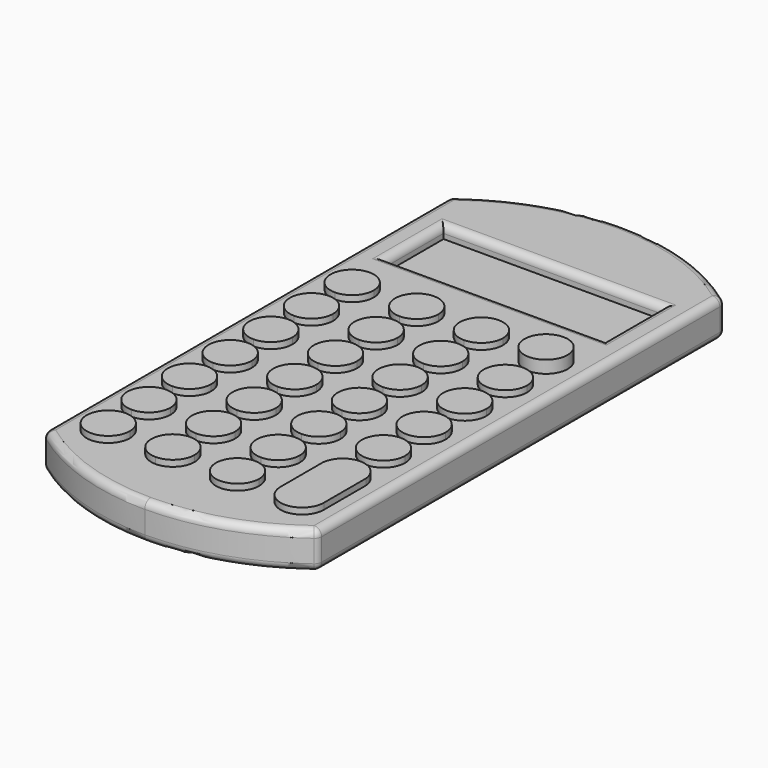
from build123d import *

# Parameters (mm, degrees)
F0_W      = 87.984342128
F0_H      = 28.8984254003
F1_DEPTH  = 15
F2_DEPTH  = 10
F3_R      = 3
F5_DEPTH  = 2.5
F6_DEPTH  = 2.5
F7_DEPTH  = 2.5
F8_DEPTH  = 2.5
F9_DEPTH  = 2.5
F10_DEPTH = 2.5
F11_DEPTH = 2.5


with BuildPart() as f1:
    # F0 (on Top) → F1 (new body)
    with BuildSketch(Plane.XY):
        with BuildLine():
            ThreePointArc((17.8983286023, 96.8288706003), (-11.1439248367, 92.0324017518), (-37.1016713977, 78.15241646))
            Line((-37.1016713977, 78.15241646), (-37.1016713977, -125.0598877668))
            Line((-37.1016713977, -125.0598877668), (17.8983286023, -125.0598877668))
            Line((17.8983286023, -125.0598877668), (72.8983286023, -125.0598877668))
            Line((72.8983286023, -125.0598877668), (72.8983286023, 78.15241646))
            ThreePointArc((72.8983286023, 78.15241646), (46.9405820413, 92.0324017518), (17.8983286023, 96.8288706003))
        make_face()
        with Locations((17.8983286023, 47.0227487385)):
            Rectangle(F0_W, F0_H, mode=Mode.SUBTRACT)
        with BuildLine():
            Line((17.8983286023, -125.0598877668), (-37.1016713977, -125.0598877668))
            ThreePointArc((-37.1016713977, -125.0598877668), (-11.1439248367, -138.9398730586), (17.8983286023, -143.7363419071))
            Line((17.8983286023, -143.7363419071), (17.8983286023, -125.0598877668))
        make_face()
        with BuildLine():
            Line((72.8983286023, -125.0598877668), (17.8983286023, -125.0598877668))
            Line((17.8983286023, -125.0598877668), (17.8983286023, -143.7363419071))
            ThreePointArc((17.8983286023, -143.7363419071), (46.9405820413, -138.9398730586), (72.8983286023, -125.0598877668))
        make_face()
    extrude(amount=F1_DEPTH)

    # F0 (on Top) → F2 (join)
    with BuildSketch(Plane.XY):
        with Locations((17.8983286023, 47.0227487385)):
            Rectangle(F0_W, F0_H)
    extrude(amount=F2_DEPTH)

    # F3
    f3_edges = [f1.edges().sort_by_distance(p)[0] for p in [
        (-37.101671, -125.059888, 7.5),
        (72.898329, -125.059888, 7.5),
        (17.898329, -143.736342, 0),
        (17.898329, -143.736342, 15),
        (-37.101671, 78.152416, 7.5),
        (-37.101671, -23.453736, 0),
        (-37.101671, -23.453736, 15),
        (17.898329, 96.828871, 15),
        (72.898329, -23.453736, 15),
        (-26.093842, 47.022749, 15),
        (17.898329, 61.471961, 15),
        (61.8905, 47.022749, 15),
        (17.898329, 32.573536, 15),
        (72.898329, 78.152416, 7.5),
        (72.898329, -23.453736, 0),
        (17.898329, 96.828871, 0),
    ]]
    fillet(f3_edges, radius=F3_R)

    # F4 (on face) → F5 (join)
    with BuildSketch(Plane.XY.offset(15)):
        with BuildLine():
            Line((48.2054539025, -93.6558089797), (48.2054539025, -103.1288355589))
            Line((48.2054539025, -103.1288355589), (65.5974000692, -103.1288355589))
            Line((65.5974000692, -103.1288355589), (65.5974000692, -93.6558089797))
            Line((65.5974000692, -93.6558089797), (65.5974000692, -92.1654421381))
            ThreePointArc((65.5974000692, -92.1654421381), (62.8036046423, -86.4810419713), (56.9014269859, -84.1827824005))
            ThreePointArc((56.9014269859, -84.1827824005), (50.9992493294, -86.4810419713), (48.2054539025, -92.1654421381))
            Line((48.2054539025, -92.1654421381), (48.2054539025, -92.9106255589))
            Line((48.2054539025, -92.9106255589), (48.2054539025, -93.6558089797))
        make_face()
        Polygon((65.5974000692, -103.1288355589), (48.2054539025, -103.1288355589), (48.2054539025, -113.3470451967), (56.9014269859, -113.3470451967), (65.5974000692, -113.3470451967), align=None)
        with BuildLine():
            Line((56.9014269859, -113.3470451967), (48.2054539025, -113.3470451967))
            ThreePointArc((48.2054539025, -113.3470451967), (56.9014269859, -122.0430182801), (65.5974000692, -113.3470451967))
            Line((65.5974000692, -113.3470451967), (56.9014269859, -113.3470451967))
        make_face()
    extrude(amount=F5_DEPTH)

    # F4 (on face) → F6 (join)
    with BuildSketch(Plane.XY.offset(15)):
        with BuildLine():
            Line((48.2054539025, -72.4742055589), (65.5974000692, -72.4742055589))
            ThreePointArc((65.5974000692, -72.4742055589), (57.0625024732, -63.7766834217), (48.2054539025, -72.1459162967))
            Line((48.2054539025, -72.1459162967), (48.2054539025, -72.4742055589))
        make_face()
        with BuildLine():
            Line((48.2054539025, -72.4742055589), (48.2054539025, -72.8024948211))
            ThreePointArc((48.2054539025, -72.8024948211), (57.0625024732, -81.1717276961), (65.5974000692, -72.4742055589))
            Line((65.5974000692, -72.4742055589), (48.2054539025, -72.4742055589))
        make_face()
    extrude(amount=F6_DEPTH)

    # F4 (on face) → F7 (join)
    with BuildSketch(Plane.XY.offset(15)):
        with BuildLine():
            Line((48.2054539025, 9.2714802398), (65.5974000692, 9.2714802398))
            ThreePointArc((65.5974000692, 9.2714802398), (57.0625024732, 17.9690023769), (48.2054539025, 9.5997695019))
            Line((48.2054539025, 9.5997695019), (48.2054539025, 9.2714802398))
        make_face()
        with BuildLine():
            Line((48.2054539025, 9.2714802398), (48.2054539025, 8.9431909776))
            ThreePointArc((48.2054539025, 8.9431909776), (57.0625024732, 0.5739581026), (65.5974000692, 9.2714802398))
            Line((65.5974000692, 9.2714802398), (48.2054539025, 9.2714802398))
        make_face()
        with BuildLine():
            Line((48.2054539025, -11.1649455589), (65.5974000692, -11.1649455589))
            ThreePointArc((65.5974000692, -11.1649455589), (57.0625024732, -2.4674234217), (48.2054539025, -10.8366562967))
            Line((48.2054539025, -10.8366562967), (48.2054539025, -11.1649455589))
        make_face()
        with BuildLine():
            Line((48.2054539025, -11.1649455589), (48.2054539025, -11.4932348211))
            ThreePointArc((48.2054539025, -11.4932348211), (57.0625024732, -19.8624676961), (65.5974000692, -11.1649455589))
            Line((65.5974000692, -11.1649455589), (48.2054539025, -11.1649455589))
        make_face()
        with BuildLine():
            Line((48.2054539025, -31.6013655589), (65.5974000692, -31.6013655589))
            ThreePointArc((65.5974000692, -31.6013655589), (57.0625024732, -22.9038434217), (48.2054539025, -31.2730762967))
            Line((48.2054539025, -31.2730762967), (48.2054539025, -31.6013655589))
        make_face()
        with BuildLine():
            Line((48.2054539025, -31.6013655589), (48.2054539025, -31.9296548211))
            ThreePointArc((48.2054539025, -31.9296548211), (57.0625024732, -40.2988876961), (65.5974000692, -31.6013655589))
            Line((65.5974000692, -31.6013655589), (48.2054539025, -31.6013655589))
        make_face()
        with BuildLine():
            Line((48.2054539025, -52.0377855589), (65.5974000692, -52.0377855589))
            ThreePointArc((65.5974000692, -52.0377855589), (57.0625024732, -43.3402634217), (48.2054539025, -51.7094962967))
            Line((48.2054539025, -51.7094962967), (48.2054539025, -52.0377855589))
        make_face()
        with BuildLine():
            Line((48.2054539025, -52.0377855589), (48.2054539025, -52.3660748211))
            ThreePointArc((48.2054539025, -52.3660748211), (57.0625024732, -60.7353076961), (65.5974000692, -52.0377855589))
            Line((65.5974000692, -52.0377855589), (48.2054539025, -52.0377855589))
        make_face()
    extrude(amount=F7_DEPTH)

    # F4 (on face) → F8 (join)
    with BuildSketch(Plane.XY.offset(15)):
        with BuildLine():
            Line((30.8983286023, -113.3470451967), (30.8983286023, -104.6479751967))
            ThreePointArc((30.8983286023, -104.6479751967), (24.7471572153, -107.1958738097), (22.1992586023, -113.3470451967))
            Line((22.1992586023, -113.3470451967), (30.8983286023, -113.3470451967))
        make_face()
        with BuildLine():
            ThreePointArc((22.1992586023, -113.3470451967), (30.8983286023, -122.0461151967), (39.5973986023, -113.3470451967))
            Line((39.5973986023, -113.3470451967), (30.8983286023, -113.3470451967))
            Line((30.8983286023, -113.3470451967), (22.1992586023, -113.3470451967))
        make_face()
    extrude(amount=F8_DEPTH)

    # F4 (on face) → F9 (join)
    with BuildSketch(Plane.XY.offset(15)):
        with BuildLine():
            Line((30.8983286023, -113.3470451967), (39.5973986023, -113.3470451967))
            ThreePointArc((39.5973986023, -113.3470451967), (37.0494999893, -107.1958738097), (30.8983286023, -104.6479751967))
            Line((30.8983286023, -104.6479751967), (30.8983286023, -113.3470451967))
        make_face()
    extrude(amount=F9_DEPTH)

    # F4 (on face) → F10 (join)
    with BuildSketch(Plane.XY.offset(15)):
        with BuildLine():
            ThreePointArc((30.8983286023, -101.6096955589), (37.0494999893, -99.0617969459), (39.5973986023, -92.9106255589))
            Line((39.5973986023, -92.9106255589), (30.8983286023, -92.9106255589))
            Line((30.8983286023, -92.9106255589), (30.8983286023, -101.6096955589))
        make_face()
        with BuildLine():
            ThreePointArc((22.1992586023, -92.9106255589), (24.7471572153, -99.0617969459), (30.8983286023, -101.6096955589))
            Line((30.8983286023, -101.6096955589), (30.8983286023, -92.9106255589))
            Line((30.8983286023, -92.9106255589), (22.1992586023, -92.9106255589))
        make_face()
        with BuildLine():
            Line((22.1992586023, -92.9106255589), (30.8983286023, -92.9106255589))
            Line((30.8983286023, -92.9106255589), (30.8983286023, -84.2115555589))
            ThreePointArc((30.8983286023, -84.2115555589), (24.7471572153, -86.7594541719), (22.1992586023, -92.9106255589))
        make_face()
        with BuildLine():
            Line((30.8983286023, -92.9106255589), (39.5973986023, -92.9106255589))
            ThreePointArc((39.5973986023, -92.9106255589), (37.0494999893, -86.7594541719), (30.8983286023, -84.2115555589))
            Line((30.8983286023, -84.2115555589), (30.8983286023, -92.9106255589))
        make_face()
        with BuildLine():
            ThreePointArc((30.8983286023, -81.1732755589), (37.0494999893, -78.6253769459), (39.5973986023, -72.4742055589))
            Line((39.5973986023, -72.4742055589), (30.8983286023, -72.4742055589))
            Line((30.8983286023, -72.4742055589), (30.8983286023, -81.1732755589))
        make_face()
        with BuildLine():
            ThreePointArc((22.1992586023, -72.4742055589), (24.7471572153, -78.6253769459), (30.8983286023, -81.1732755589))
            Line((30.8983286023, -81.1732755589), (30.8983286023, -72.4742055589))
            Line((30.8983286023, -72.4742055589), (22.1992586023, -72.4742055589))
        make_face()
        with BuildLine():
            Line((22.1992586023, -72.4742055589), (30.8983286023, -72.4742055589))
            Line((30.8983286023, -72.4742055589), (30.8983286023, -63.7751355589))
            ThreePointArc((30.8983286023, -63.7751355589), (24.7471572153, -66.3230341719), (22.1992586023, -72.4742055589))
        make_face()
        with BuildLine():
            Line((30.8983286023, -72.4742055589), (39.5973986023, -72.4742055589))
            ThreePointArc((39.5973986023, -72.4742055589), (37.0494999893, -66.3230341719), (30.8983286023, -63.7751355589))
            Line((30.8983286023, -63.7751355589), (30.8983286023, -72.4742055589))
        make_face()
        with BuildLine():
            Line((22.1992586023, -52.0377855589), (30.8983286023, -52.0377855589))
            Line((30.8983286023, -52.0377855589), (30.8983286023, -43.3387155589))
            ThreePointArc((30.8983286023, -43.3387155589), (24.7471572153, -45.8866141719), (22.1992586023, -52.0377855589))
        make_face()
        with BuildLine():
            Line((30.8983286023, -52.0377855589), (39.5973986023, -52.0377855589))
            ThreePointArc((39.5973986023, -52.0377855589), (37.0494999893, -45.8866141719), (30.8983286023, -43.3387155589))
            Line((30.8983286023, -43.3387155589), (30.8983286023, -52.0377855589))
        make_face()
        with BuildLine():
            ThreePointArc((30.8983286023, -60.7368555589), (37.0494999893, -58.1889569459), (39.5973986023, -52.0377855589))
            Line((39.5973986023, -52.0377855589), (30.8983286023, -52.0377855589))
            Line((30.8983286023, -52.0377855589), (30.8983286023, -60.7368555589))
        make_face()
        with BuildLine():
            ThreePointArc((22.1992586023, -52.0377855589), (24.7471572153, -58.1889569459), (30.8983286023, -60.7368555589))
            Line((30.8983286023, -60.7368555589), (30.8983286023, -52.0377855589))
            Line((30.8983286023, -52.0377855589), (22.1992586023, -52.0377855589))
        make_face()
        with BuildLine():
            ThreePointArc((30.8983286023, -40.3004355589), (37.0494999893, -37.7525369459), (39.5973986023, -31.6013655589))
            Line((39.5973986023, -31.6013655589), (30.8983286023, -31.6013655589))
            Line((30.8983286023, -31.6013655589), (30.8983286023, -40.3004355589))
        make_face()
        with BuildLine():
            ThreePointArc((22.1992586023, -31.6013655562), (24.7471572143, -37.752536945), (30.8983286023, -40.3004355589))
            Line((30.8983286023, -40.3004355589), (30.8983286023, -31.6013655589))
            Line((30.8983286023, -31.6013655589), (22.1992586023, -31.6013655589))
        make_face()
        with BuildLine():
            Line((22.1992586023, -31.6013655589), (30.8983286023, -31.6013655589))
            Line((30.8983286023, -31.6013655589), (30.8983286023, -22.9022955589))
            ThreePointArc((30.8983286023, -22.9022955589), (24.7471572163, -25.4501941709), (22.1992586023, -31.6013655562))
        make_face()
        with BuildLine():
            Line((30.8983286023, -31.6013655589), (39.5973986023, -31.6013655589))
            ThreePointArc((39.5973986023, -31.6013655589), (37.0494999893, -25.4501941719), (30.8983286023, -22.9022955589))
            Line((30.8983286023, -22.9022955589), (30.8983286023, -31.6013655589))
        make_face()
        with BuildLine():
            ThreePointArc((30.8983286023, -19.8640155589), (37.0494999893, -17.3161169459), (39.5973986023, -11.1649455589))
            Line((39.5973986023, -11.1649455589), (30.8983286023, -11.1649455589))
            Line((30.8983286023, -11.1649455589), (30.8983286023, -19.8640155589))
        make_face()
        with BuildLine():
            ThreePointArc((22.1992586023, -11.164945553), (24.7471572132, -17.3161169438), (30.8983286023, -19.8640155589))
            Line((30.8983286023, -19.8640155589), (30.8983286023, -11.1649455589))
            Line((30.8983286023, -11.1649455589), (22.1992586023, -11.1649455589))
        make_face()
        with BuildLine():
            Line((22.1992586023, -11.1649455589), (30.8983286023, -11.1649455589))
            Line((30.8983286023, -11.1649455589), (30.8983286023, -2.4658755589))
            ThreePointArc((30.8983286023, -2.4658755589), (24.7471572174, -5.0137741698), (22.1992586023, -11.164945553))
        make_face()
        with BuildLine():
            Line((30.8983286023, -11.1649455589), (39.5973986023, -11.1649455589))
            ThreePointArc((39.5973986023, -11.1649455589), (37.0494999893, -5.0137741719), (30.8983286023, -2.4658755589))
            Line((30.8983286023, -2.4658755589), (30.8983286023, -11.1649455589))
        make_face()
        with BuildLine():
            Line((4.8983286023, -11.1649455589), (13.5973986023, -11.1649455589))
            ThreePointArc((13.5973986023, -11.1649455589), (11.0494999893, -5.0137741719), (4.8983286023, -2.4658755589))
            Line((4.8983286023, -2.4658755589), (4.8983286023, -11.1649455589))
        make_face()
        with BuildLine():
            Line((-3.8007413977, -11.1649455589), (4.8983286023, -11.1649455589))
            Line((4.8983286023, -11.1649455589), (4.8983286023, -2.4658755589))
            ThreePointArc((4.8983286023, -2.4658755589), (-1.2528427876, -5.0137741748), (-3.8007413977, -11.1649455672))
        make_face()
        with BuildLine():
            ThreePointArc((-3.8007413977, -11.1649455672), (-1.2528427818, -17.3161169488), (4.8983286023, -19.8640155589))
            Line((4.8983286023, -19.8640155589), (4.8983286023, -11.1649455589))
            Line((4.8983286023, -11.1649455589), (-3.8007413977, -11.1649455589))
        make_face()
        with BuildLine():
            ThreePointArc((4.8983286023, -19.8640155589), (11.0494999893, -17.3161169459), (13.5973986023, -11.1649455589))
            Line((13.5973986023, -11.1649455589), (4.8983286023, -11.1649455589))
            Line((4.8983286023, -11.1649455589), (4.8983286023, -19.8640155589))
        make_face()
        with BuildLine():
            Line((4.8983286023, -31.6013655589), (13.5973986023, -31.6013655589))
            ThreePointArc((13.5973986023, -31.6013655589), (11.0494999893, -25.4501941719), (4.8983286023, -22.9022955589))
            Line((4.8983286023, -22.9022955589), (4.8983286023, -31.6013655589))
        make_face()
        with BuildLine():
            Line((-3.8007413977, -31.6013655589), (4.8983286023, -31.6013655589))
            Line((4.8983286023, -31.6013655589), (4.8983286023, -22.9022955589))
            ThreePointArc((4.8983286023, -22.9022955589), (-1.2528427847, -25.4501941719), (-3.8007413977, -31.6013655589))
        make_face()
        with BuildLine():
            ThreePointArc((-3.8007413977, -31.6013655589), (-1.2528427847, -37.7525369459), (4.8983286023, -40.3004355589))
            Line((4.8983286023, -40.3004355589), (4.8983286023, -31.6013655589))
            Line((4.8983286023, -31.6013655589), (-3.8007413977, -31.6013655589))
        make_face()
        with BuildLine():
            ThreePointArc((4.8983286023, -40.3004355589), (11.0494999893, -37.7525369459), (13.5973986023, -31.6013655589))
            Line((13.5973986023, -31.6013655589), (4.8983286023, -31.6013655589))
            Line((4.8983286023, -31.6013655589), (4.8983286023, -40.3004355589))
        make_face()
        with BuildLine():
            Line((4.8983286023, -52.0377855589), (13.5973986023, -52.0377855589))
            ThreePointArc((13.5973986023, -52.0377855589), (11.0494999893, -45.8866141719), (4.8983286023, -43.3387155589))
            Line((4.8983286023, -43.3387155589), (4.8983286023, -52.0377855589))
        make_face()
        with BuildLine():
            Line((-3.8007413977, -52.0377855589), (4.8983286023, -52.0377855589))
            Line((4.8983286023, -52.0377855589), (4.8983286023, -43.3387155589))
            ThreePointArc((4.8983286023, -43.3387155589), (-1.2528427858, -45.886614173), (-3.8007413977, -52.0377855621))
        make_face()
        with BuildLine():
            ThreePointArc((-3.8007413977, -52.0377855621), (-1.2528427836, -58.188956947), (4.8983286023, -60.7368555589))
            Line((4.8983286023, -60.7368555589), (4.8983286023, -52.0377855589))
            Line((4.8983286023, -52.0377855589), (-3.8007413977, -52.0377855589))
        make_face()
        with BuildLine():
            ThreePointArc((4.8983286023, -60.7368555589), (11.0494999893, -58.1889569459), (13.5973986023, -52.0377855589))
            Line((13.5973986023, -52.0377855589), (4.8983286023, -52.0377855589))
            Line((4.8983286023, -52.0377855589), (4.8983286023, -60.7368555589))
        make_face()
        with BuildLine():
            Line((4.8983286023, -72.4742055589), (13.5973986023, -72.4742055589))
            ThreePointArc((13.5973986023, -72.4742055589), (11.0494999893, -66.3230341719), (4.8983286023, -63.7751355589))
            Line((4.8983286023, -63.7751355589), (4.8983286023, -72.4742055589))
        make_face()
        with BuildLine():
            Line((-3.8007413977, -72.4742055589), (4.8983286023, -72.4742055589))
            Line((4.8983286023, -72.4742055589), (4.8983286023, -63.7751355589))
            ThreePointArc((4.8983286023, -63.7751355589), (-1.2528427847, -66.3230341719), (-3.8007413977, -72.4742055589))
        make_face()
        with BuildLine():
            ThreePointArc((-3.8007413977, -72.4742055589), (-1.2528427847, -78.6253769459), (4.8983286023, -81.1732755589))
            Line((4.8983286023, -81.1732755589), (4.8983286023, -72.4742055589))
            Line((4.8983286023, -72.4742055589), (-3.8007413977, -72.4742055589))
        make_face()
        with BuildLine():
            ThreePointArc((4.8983286023, -81.1732755589), (11.0494999893, -78.6253769459), (13.5973986023, -72.4742055589))
            Line((13.5973986023, -72.4742055589), (4.8983286023, -72.4742055589))
            Line((4.8983286023, -72.4742055589), (4.8983286023, -81.1732755589))
        make_face()
        with BuildLine():
            Line((4.8983286023, -92.9106255589), (13.5973986023, -92.9106255589))
            ThreePointArc((13.5973986023, -92.9106255589), (11.0494999893, -86.7594541719), (4.8983286023, -84.2115555589))
            Line((4.8983286023, -84.2115555589), (4.8983286023, -92.9106255589))
        make_face()
        with BuildLine():
            Line((-3.8007413977, -92.9106255589), (4.8983286023, -92.9106255589))
            Line((4.8983286023, -92.9106255589), (4.8983286023, -84.2115555589))
            ThreePointArc((4.8983286023, -84.2115555589), (-1.2528427847, -86.7594541719), (-3.8007413977, -92.9106255589))
        make_face()
        with BuildLine():
            ThreePointArc((-3.8007413977, -92.9106255589), (-1.2528427847, -99.0617969459), (4.8983286023, -101.6096955589))
            Line((4.8983286023, -101.6096955589), (4.8983286023, -92.9106255589))
            Line((4.8983286023, -92.9106255589), (-3.8007413977, -92.9106255589))
        make_face()
        with BuildLine():
            ThreePointArc((4.8983286023, -101.6096955589), (11.0494999893, -99.0617969459), (13.5973986023, -92.9106255589))
            Line((13.5973986023, -92.9106255589), (4.8983286023, -92.9106255589))
            Line((4.8983286023, -92.9106255589), (4.8983286023, -101.6096955589))
        make_face()
        with BuildLine():
            Line((4.8983286023, -113.3470451967), (13.5973986023, -113.3470451967))
            ThreePointArc((13.5973986023, -113.3470451967), (11.0494999893, -107.1958738097), (4.8983286023, -104.6479751967))
            Line((4.8983286023, -104.6479751967), (4.8983286023, -113.3470451967))
        make_face()
        with BuildLine():
            Line((-3.8007413977, -113.3470451967), (4.8983286023, -113.3470451967))
            Line((4.8983286023, -113.3470451967), (4.8983286023, -104.6479751967))
            ThreePointArc((4.8983286023, -104.6479751967), (-1.2528427847, -107.1958738097), (-3.8007413977, -113.3470451967))
        make_face()
        with BuildLine():
            Line((4.8983286023, -122.0461151967), (4.8983286023, -113.3470451967))
            Line((4.8983286023, -113.3470451967), (-3.8007413977, -113.3470451967))
            ThreePointArc((-3.8007413977, -113.3470451967), (-1.2528427847, -119.4982165837), (4.8983286023, -122.0461151967))
        make_face()
        with BuildLine():
            ThreePointArc((4.8983286023, -122.0461151967), (11.0494999893, -119.4982165837), (13.5973986023, -113.3470451967))
            Line((13.5973986023, -113.3470451967), (4.8983286023, -113.3470451967))
            Line((4.8983286023, -113.3470451967), (4.8983286023, -122.0461151967))
        make_face()
        with BuildLine():
            ThreePointArc((-29.8007413977, -113.3470451967), (-21.1016713977, -122.0461151967), (-12.4026013977, -113.3470451967))
            Line((-12.4026013977, -113.3470451967), (-21.1016713977, -113.3470451967))
            Line((-21.1016713977, -113.3470451967), (-29.8007413977, -113.3470451967))
        make_face()
        with BuildLine():
            Line((-21.1016713977, -113.3470451967), (-12.4026013977, -113.3470451967))
            ThreePointArc((-12.4026013977, -113.3470451967), (-14.9505000107, -107.1958738097), (-21.1016713977, -104.6479751967))
            Line((-21.1016713977, -104.6479751967), (-21.1016713977, -113.3470451967))
        make_face()
        with BuildLine():
            ThreePointArc((-21.1016713977, -104.6479751967), (-27.2528427847, -107.1958738097), (-29.8007413977, -113.3470451967))
            Line((-29.8007413977, -113.3470451967), (-21.1016713977, -113.3470451967))
            Line((-21.1016713977, -113.3470451967), (-21.1016713977, -104.6479751967))
        make_face()
        with BuildLine():
            ThreePointArc((-21.1016713977, -101.6096955589), (-14.9505000107, -99.0617969459), (-12.4026013977, -92.9106255589))
            Line((-12.4026013977, -92.9106255589), (-21.1016713977, -92.9106255589))
            Line((-21.1016713977, -92.9106255589), (-21.1016713977, -101.6096955589))
        make_face()
        with BuildLine():
            Line((-21.1016713977, -92.9106255589), (-29.8007413977, -92.9106255589))
            ThreePointArc((-29.8007413977, -92.9106255589), (-27.2528427847, -99.0617969459), (-21.1016713977, -101.6096955589))
            Line((-21.1016713977, -101.6096955589), (-21.1016713977, -92.9106255589))
        make_face()
        with BuildLine():
            ThreePointArc((-21.1016713977, -84.2115555589), (-27.2528427847, -86.7594541719), (-29.8007413977, -92.9106255589))
            Line((-29.8007413977, -92.9106255589), (-21.1016713977, -92.9106255589))
            Line((-21.1016713977, -92.9106255589), (-21.1016713977, -84.2115555589))
        make_face()
        with BuildLine():
            Line((-21.1016713977, -92.9106255589), (-12.4026013977, -92.9106255589))
            ThreePointArc((-12.4026013977, -92.9106255589), (-14.9505000107, -86.7594541719), (-21.1016713977, -84.2115555589))
            Line((-21.1016713977, -84.2115555589), (-21.1016713977, -92.9106255589))
        make_face()
        with BuildLine():
            ThreePointArc((-21.1016713977, -81.1732755589), (-14.9505000107, -78.6253769459), (-12.4026013977, -72.4742055589))
            Line((-12.4026013977, -72.4742055589), (-21.1016713977, -72.4742055589))
            Line((-21.1016713977, -72.4742055589), (-21.1016713977, -81.1732755589))
        make_face()
        with BuildLine():
            Line((-21.1016713977, -72.4742055589), (-29.8007413977, -72.4742055589))
            ThreePointArc((-29.8007413977, -72.4742055589), (-27.2528427847, -78.6253769459), (-21.1016713977, -81.1732755589))
            Line((-21.1016713977, -81.1732755589), (-21.1016713977, -72.4742055589))
        make_face()
        with BuildLine():
            ThreePointArc((-21.1016713977, -63.7751355589), (-27.2528427847, -66.3230341719), (-29.8007413977, -72.4742055589))
            Line((-29.8007413977, -72.4742055589), (-21.1016713977, -72.4742055589))
            Line((-21.1016713977, -72.4742055589), (-21.1016713977, -63.7751355589))
        make_face()
        with BuildLine():
            Line((-21.1016713977, -72.4742055589), (-12.4026013977, -72.4742055589))
            ThreePointArc((-12.4026013977, -72.4742055589), (-14.9505000107, -66.3230341719), (-21.1016713977, -63.7751355589))
            Line((-21.1016713977, -63.7751355589), (-21.1016713977, -72.4742055589))
        make_face()
        with BuildLine():
            ThreePointArc((-21.1016713977, -60.7368555589), (-14.9505000107, -58.1889569459), (-12.4026013977, -52.0377855589))
            Line((-12.4026013977, -52.0377855589), (-21.1016713977, -52.0377855589))
            Line((-21.1016713977, -52.0377855589), (-21.1016713977, -60.7368555589))
        make_face()
        with BuildLine():
            Line((-21.1016713977, -52.0377855589), (-29.8007413977, -52.0377855589))
            ThreePointArc((-29.8007413977, -52.0377855589), (-27.2528427847, -58.1889569459), (-21.1016713977, -60.7368555589))
            Line((-21.1016713977, -60.7368555589), (-21.1016713977, -52.0377855589))
        make_face()
        with BuildLine():
            ThreePointArc((-21.1016713977, -43.3387155589), (-27.2528427847, -45.8866141719), (-29.8007413977, -52.0377855589))
            Line((-29.8007413977, -52.0377855589), (-21.1016713977, -52.0377855589))
            Line((-21.1016713977, -52.0377855589), (-21.1016713977, -43.3387155589))
        make_face()
        with BuildLine():
            Line((-21.1016713977, -52.0377855589), (-12.4026013977, -52.0377855589))
            ThreePointArc((-12.4026013977, -52.0377855589), (-14.9505000107, -45.8866141719), (-21.1016713977, -43.3387155589))
            Line((-21.1016713977, -43.3387155589), (-21.1016713977, -52.0377855589))
        make_face()
        with BuildLine():
            ThreePointArc((-21.1016713977, -40.3004355589), (-14.9505000107, -37.7525369459), (-12.4026013977, -31.6013655589))
            Line((-12.4026013977, -31.6013655589), (-21.1016713977, -31.6013655589))
            Line((-21.1016713977, -31.6013655589), (-21.1016713977, -40.3004355589))
        make_face()
        with BuildLine():
            Line((-21.1016713977, -31.6013655589), (-29.8007413977, -31.6013655589))
            ThreePointArc((-29.8007413977, -31.6013655589), (-27.2528427847, -37.7525369459), (-21.1016713977, -40.3004355589))
            Line((-21.1016713977, -40.3004355589), (-21.1016713977, -31.6013655589))
        make_face()
        with BuildLine():
            ThreePointArc((-21.1016713977, -22.9022955589), (-27.2528427847, -25.4501941719), (-29.8007413977, -31.6013655589))
            Line((-29.8007413977, -31.6013655589), (-21.1016713977, -31.6013655589))
            Line((-21.1016713977, -31.6013655589), (-21.1016713977, -22.9022955589))
        make_face()
        with BuildLine():
            Line((-21.1016713977, -31.6013655589), (-12.4026013977, -31.6013655589))
            ThreePointArc((-12.4026013977, -31.6013655589), (-14.9505000107, -25.4501941719), (-21.1016713977, -22.9022955589))
            Line((-21.1016713977, -22.9022955589), (-21.1016713977, -31.6013655589))
        make_face()
        with BuildLine():
            ThreePointArc((-21.1016713977, -19.8640155589), (-14.9505000107, -17.3161169459), (-12.4026013977, -11.1649455589))
            Line((-12.4026013977, -11.1649455589), (-21.1016713977, -11.1649455589))
            Line((-21.1016713977, -11.1649455589), (-21.1016713977, -19.8640155589))
        make_face()
        with BuildLine():
            Line((-21.1016713977, -11.1649455589), (-29.8007413977, -11.1649455589))
            ThreePointArc((-29.8007413977, -11.1649455506), (-27.2528427876, -17.316116943), (-21.1016713977, -19.8640155589))
            Line((-21.1016713977, -19.8640155589), (-21.1016713977, -11.1649455589))
        make_face()
        with BuildLine():
            ThreePointArc((-21.1016713977, -2.4658755589), (-27.2528427818, -5.0137741689), (-29.8007413977, -11.1649455506))
            Line((-29.8007413977, -11.1649455589), (-21.1016713977, -11.1649455589))
            Line((-21.1016713977, -11.1649455589), (-21.1016713977, -2.4658755589))
        make_face()
        with BuildLine():
            Line((-21.1016713977, -11.1649455589), (-12.4026013977, -11.1649455589))
            ThreePointArc((-12.4026013977, -11.1649455589), (-14.9505000107, -5.0137741719), (-21.1016713977, -2.4658755589))
            Line((-21.1016713977, -2.4658755589), (-21.1016713977, -11.1649455589))
        make_face()
        with BuildLine():
            ThreePointArc((-21.1016713977, 0.5724102398), (-14.9505000107, 3.1203088527), (-12.4026013977, 9.2714802398))
            Line((-12.4026013977, 9.2714802398), (-21.1016713977, 9.2714802398))
            Line((-21.1016713977, 9.2714802398), (-21.1016713977, 0.5724102398))
        make_face()
        with BuildLine():
            Line((-21.1016713977, 9.2714802398), (-29.8007413977, 9.2714802398))
            ThreePointArc((-29.8007413977, 9.2714802398), (-27.2528427847, 3.1203088527), (-21.1016713977, 0.5724102398))
            Line((-21.1016713977, 0.5724102398), (-21.1016713977, 9.2714802398))
        make_face()
        with BuildLine():
            Line((-21.1016713977, 9.2714802398), (-21.1016713977, 17.9705502398))
            ThreePointArc((-21.1016713977, 17.9705502398), (-27.2528427847, 15.4226516268), (-29.8007413977, 9.2714802398))
            Line((-29.8007413977, 9.2714802398), (-21.1016713977, 9.2714802398))
        make_face()
        with BuildLine():
            ThreePointArc((-12.4026013977, 9.2714802398), (-14.9505000107, 15.4226516268), (-21.1016713977, 17.9705502398))
            Line((-21.1016713977, 17.9705502398), (-21.1016713977, 9.2714802398))
            Line((-21.1016713977, 9.2714802398), (-12.4026013977, 9.2714802398))
        make_face()
        with BuildLine():
            Line((-3.8007413977, 9.2714802398), (4.8983286023, 9.2714802398))
            Line((4.8983286023, 9.2714802398), (4.8983286023, 17.9705502398))
            ThreePointArc((4.8983286023, 17.9705502398), (-1.2528427847, 15.4226516268), (-3.8007413977, 9.2714802398))
        make_face()
        with BuildLine():
            ThreePointArc((-3.8007413977, 9.2714802398), (-1.2528427847, 3.1203088527), (4.8983286023, 0.5724102398))
            Line((4.8983286023, 0.5724102398), (4.8983286023, 9.2714802398))
            Line((4.8983286023, 9.2714802398), (-3.8007413977, 9.2714802398))
        make_face()
        with BuildLine():
            ThreePointArc((4.8983286023, 0.5724102398), (11.0494999893, 3.1203088527), (13.5973986023, 9.2714802398))
            Line((13.5973986023, 9.2714802398), (4.8983286023, 9.2714802398))
            Line((4.8983286023, 9.2714802398), (4.8983286023, 0.5724102398))
        make_face()
        with BuildLine():
            Line((4.8983286023, 9.2714802398), (13.5973986023, 9.2714802398))
            ThreePointArc((13.5973986023, 9.2714802398), (11.0494999893, 15.4226516268), (4.8983286023, 17.9705502398))
            Line((4.8983286023, 17.9705502398), (4.8983286023, 9.2714802398))
        make_face()
        with BuildLine():
            Line((22.1992586023, 9.2714802398), (30.8983286023, 9.2714802398))
            Line((30.8983286023, 9.2714802398), (30.8983286023, 17.9705502398))
            ThreePointArc((30.8983286023, 17.9705502398), (24.7471572272, 15.4226516387), (22.1992586023, 9.2714802734))
        make_face()
        with BuildLine():
            ThreePointArc((22.1992586023, 9.2714802734), (24.7471572034, 3.1203088646), (30.8983286023, 0.5724102398))
            Line((30.8983286023, 0.5724102398), (30.8983286023, 9.2714802398))
            Line((30.8983286023, 9.2714802398), (22.1992586023, 9.2714802398))
        make_face()
        with BuildLine():
            ThreePointArc((30.8983286023, 0.5724102398), (37.0494999893, 3.1203088527), (39.5973986023, 9.2714802398))
            Line((39.5973986023, 9.2714802398), (30.8983286023, 9.2714802398))
            Line((30.8983286023, 9.2714802398), (30.8983286023, 0.5724102398))
        make_face()
        with BuildLine():
            Line((30.8983286023, 9.2714802398), (39.5973986023, 9.2714802398))
            ThreePointArc((39.5973986023, 9.2714802398), (37.0494999893, 15.4226516268), (30.8983286023, 17.9705502398))
            Line((30.8983286023, 17.9705502398), (30.8983286023, 9.2714802398))
        make_face()
    extrude(amount=F10_DEPTH)

    # F11 (add): a face of the model
    f11_faces = [f1.faces().sort_by_distance(p)[0] for p in [
        (56.8984278198, 9.2714802398, 17.5),
    ]]
    extrude(f11_faces, amount=F11_DEPTH)


solid = f1.part
